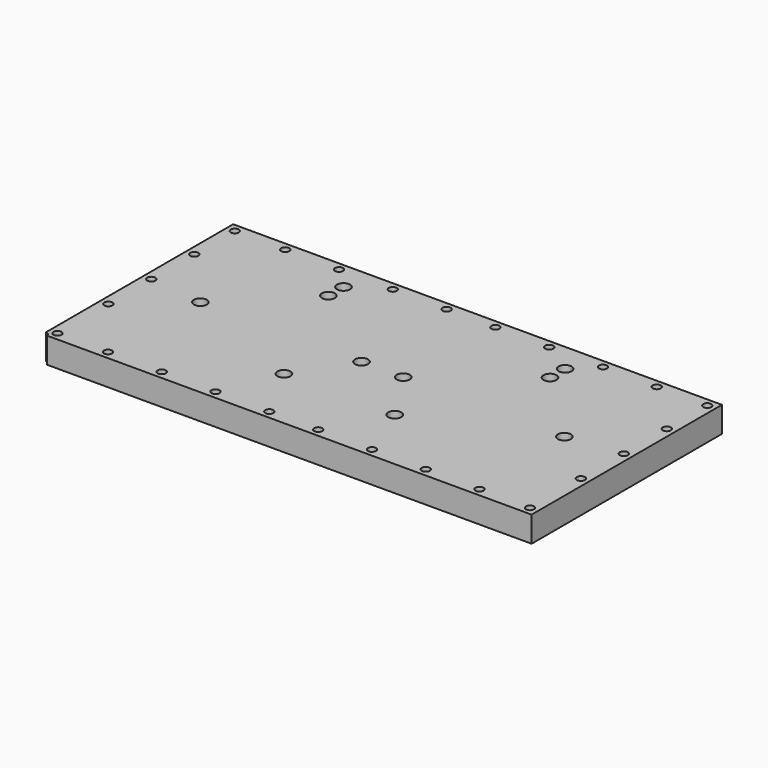
from build123d import *

# Parameters (mm, degrees)
F0_W      = 150
F0_H      = 73
F1_DEPTH  = 7.873
F2_W      = 136
F2_H      = 63
F3_DEPTH  = 4.873
F4_R      = 1.25
F5_DEPTH  = 7.873
F6_R      = 1.25
F7_DEPTH  = 7.873
F8_R      = 1.25
F9_DEPTH  = 7.873
F10_R     = 1.25
F11_DEPTH = 7.873
F12_R     = 1.25
F13_DEPTH = 7.873
F14_R     = 1.25
F15_DEPTH = 7.873
F16_R     = 1.25
F17_DEPTH = 7.873
F18_R     = 1.25
F19_DEPTH = 7.873
F20_R     = 1.25
F21_DEPTH = 7.873
F22_R     = 1.25
F23_DEPTH = 7.873
F24_R     = 1.25
F25_DEPTH = 7.873
F26_R     = 1.25
F27_DEPTH = 7.873
F28_R     = 1.25
F29_DEPTH = 7.873
F30_R     = 1.25
F31_DEPTH = 7.873
F32_R     = 1.25
F33_DEPTH = 7.873
F34_R     = 1.25
F35_DEPTH = 7.873
F36_R     = 1.25
F37_DEPTH = 7.873
F38_R     = 1.25
F39_DEPTH = 7.873
F40_R     = 1.25
F41_DEPTH = 7.873
F42_R     = 1.25
F43_DEPTH = 7.873
F44_R     = 1.25
F45_DEPTH = 7.873
F46_R     = 1.25
F47_DEPTH = 7.873
F48_R     = 1.25
F49_DEPTH = 7.873
F50_R     = 1.25
F51_DEPTH = 7.873
F52_R     = 1.25
F53_DEPTH = 7.873
F54_R     = 1.25
F55_DEPTH = 7.873
F56_R     = 2
F57_DEPTH = 3
F58_R     = 2
F59_DEPTH = 3
F60_R     = 2
F61_DEPTH = 3
F62_R     = 2
F63_DEPTH = 3
F64_R     = 2
F65_DEPTH = 3
F66_R     = 2
F67_DEPTH = 3
F68_R     = 2
F69_DEPTH = 3
F70_R     = 2
F71_DEPTH = 3
F72_R     = 2
F73_DEPTH = 3
F74_R     = 2
F75_DEPTH = 3
F76_W     = 2.5
F76_H     = 4.873
F77_DEPTH = 63
F78_W     = 2.5
F78_H     = 6.5
F79_DEPTH = 0.623
F80_R     = 2
F81_DEPTH = 10
F82_R     = 2
F83_DEPTH = 10
F84_R     = 2
F85_DEPTH = 10
F86_R     = 2
F87_DEPTH = 10
F88_R     = 2
F89_DEPTH = 10
F90_R     = 2
F91_DEPTH = 10


with BuildPart() as f1:
    # F0 (on Top) → F1 (new body)
    with BuildSketch(Plane.XY):
        with Locations((75, 36.5)):
            Rectangle(F0_W, F0_H)
    extrude(amount=F1_DEPTH)

    # F2 (on Top) → F3 (cut)
    with BuildSketch(Plane.XY):
        with Locations((75, 36.5)):
            Rectangle(F2_W, F2_H)
    extrude(amount=F3_DEPTH, mode=Mode.SUBTRACT)

    # F4 (on face) → F5 (cut)
    with BuildSketch(Plane.XY.offset(7.873)):
        with Locations((2.5, 2.5)):
            Circle(F4_R)
    extrude(amount=-F5_DEPTH, mode=Mode.SUBTRACT)

    # F6 (on face) → F7 (cut)
    with BuildSketch(Plane.XY.offset(7.873)):
        with Locations((18, 2.5)):
            Circle(F6_R)
    extrude(amount=-F7_DEPTH, mode=Mode.SUBTRACT)

    # F8 (on face) → F9 (cut)
    with BuildSketch(Plane.XY.offset(7.873)):
        with Locations((34.5, 2.5)):
            Circle(F8_R)
    extrude(amount=-F9_DEPTH, mode=Mode.SUBTRACT)

    # F10 (on face) → F11 (cut)
    with BuildSketch(Plane.XY.offset(7.873)):
        with Locations((51, 2.5)):
            Circle(F10_R)
    extrude(amount=-F11_DEPTH, mode=Mode.SUBTRACT)

    # F12 (on face) → F13 (cut)
    with BuildSketch(Plane.XY.offset(7.873)):
        with Locations((67.5, 2.5)):
            Circle(F12_R)
    extrude(amount=-F13_DEPTH, mode=Mode.SUBTRACT)

    # F14 (on face) → F15 (cut)
    with BuildSketch(Plane.XY.offset(7.873)):
        with Locations((82.5, 2.5)):
            Circle(F14_R)
    extrude(amount=-F15_DEPTH, mode=Mode.SUBTRACT)

    # F16 (on face) → F17 (cut)
    with BuildSketch(Plane.XY.offset(7.873)):
        with Locations((99, 2.5)):
            Circle(F16_R)
    extrude(amount=-F17_DEPTH, mode=Mode.SUBTRACT)

    # F18 (on face) → F19 (cut)
    with BuildSketch(Plane.XY.offset(7.873)):
        with Locations((115.5, 2.5)):
            Circle(F18_R)
    extrude(amount=-F19_DEPTH, mode=Mode.SUBTRACT)

    # F20 (on face) → F21 (cut)
    with BuildSketch(Plane.XY.offset(7.873)):
        with Locations((132, 2.5)):
            Circle(F20_R)
    extrude(amount=-F21_DEPTH, mode=Mode.SUBTRACT)

    # F22 (on face) → F23 (cut)
    with BuildSketch(Plane.XY.offset(7.873)):
        with Locations((147.5, 2.5)):
            Circle(F22_R)
    extrude(amount=-F23_DEPTH, mode=Mode.SUBTRACT)

    # F24 (on face) → F25 (cut)
    with BuildSketch(Plane.XY.offset(7.873)):
        with Locations((2.5, 22)):
            Circle(F24_R)
    extrude(amount=-F25_DEPTH, mode=Mode.SUBTRACT)

    # F26 (on face) → F27 (cut)
    with BuildSketch(Plane.XY.offset(7.873)):
        with Locations((147.5, 22)):
            Circle(F26_R)
    extrude(amount=-F27_DEPTH, mode=Mode.SUBTRACT)

    # F28 (on face) → F29 (cut)
    with BuildSketch(Plane.XY.offset(7.873)):
        with Locations((147.5, 38.5)):
            Circle(F28_R)
    extrude(amount=-F29_DEPTH, mode=Mode.SUBTRACT)

    # F30 (on face) → F31 (cut)
    with BuildSketch(Plane.XY.offset(7.873)):
        with Locations((2.5, 38.5)):
            Circle(F30_R)
    extrude(amount=-F31_DEPTH, mode=Mode.SUBTRACT)

    # F32 (on face) → F33 (cut)
    with BuildSketch(Plane.XY.offset(7.873)):
        with Locations((2.5, 55)):
            Circle(F32_R)
    extrude(amount=-F33_DEPTH, mode=Mode.SUBTRACT)

    # F34 (on face) → F35 (cut)
    with BuildSketch(Plane.XY.offset(7.873)):
        with Locations((147.5, 55)):
            Circle(F34_R)
    extrude(amount=-F35_DEPTH, mode=Mode.SUBTRACT)

    # F36 (on face) → F37 (cut)
    with BuildSketch(Plane.XY.offset(7.873)):
        with Locations((2.5, 70.5)):
            Circle(F36_R)
    extrude(amount=-F37_DEPTH, mode=Mode.SUBTRACT)

    # F38 (on face) → F39 (cut)
    with BuildSketch(Plane.XY.offset(7.873)):
        with Locations((147.5, 70.5)):
            Circle(F38_R)
    extrude(amount=-F39_DEPTH, mode=Mode.SUBTRACT)

    # F40 (on face) → F41 (cut)
    with BuildSketch(Plane.XY.offset(7.873)):
        with Locations((18, 70.5)):
            Circle(F40_R)
    extrude(amount=-F41_DEPTH, mode=Mode.SUBTRACT)

    # F42 (on face) → F43 (cut)
    with BuildSketch(Plane.XY.offset(7.873)):
        with Locations((132, 70.5)):
            Circle(F42_R)
    extrude(amount=-F43_DEPTH, mode=Mode.SUBTRACT)

    # F44 (on face) → F45 (cut)
    with BuildSketch(Plane.XY.offset(7.873)):
        with Locations((34.5, 70.5)):
            Circle(F44_R)
        Circle(F44_R)
    extrude(amount=-F45_DEPTH, mode=Mode.SUBTRACT)

    # F46 (on face) → F47 (cut)
    with BuildSketch(Plane.XY.offset(7.873)):
        with Locations((115.5, 70.5)):
            Circle(F46_R)
    extrude(amount=-F47_DEPTH, mode=Mode.SUBTRACT)

    # F48 (on face) → F49 (cut)
    with BuildSketch(Plane.XY.offset(7.873)):
        with Locations((51, 70.5)):
            Circle(F48_R)
    extrude(amount=-F49_DEPTH, mode=Mode.SUBTRACT)

    # F50 (on face) → F51 (cut)
    with BuildSketch(Plane.XY.offset(7.873)):
        with Locations((67.5, 70.5)):
            Circle(F50_R)
    extrude(amount=-F51_DEPTH, mode=Mode.SUBTRACT)

    # F52 (on face) → F53 (cut)
    with BuildSketch(Plane.XY.offset(7.873)):
        with Locations((82.5, 70.5)):
            Circle(F52_R)
    extrude(amount=-F53_DEPTH, mode=Mode.SUBTRACT)

    # F54 (on face) → F55 (cut)
    with BuildSketch(Plane.XY.offset(7.873)):
        with Locations((99, 70.5)):
            Circle(F54_R)
    extrude(amount=-F55_DEPTH, mode=Mode.SUBTRACT)

    # F56 (on face) → F57 (cut)
    with BuildSketch(Plane.XY.offset(7.873)):
        with Locations((41, 64.1)):
            Circle(F56_R)
    extrude(amount=-F57_DEPTH, mode=Mode.SUBTRACT)

    # F58 (on face) → F59 (cut)
    with BuildSketch(Plane.XY.offset(7.873)):
        with Locations((41, 58.3)):
            Circle(F58_R)
    extrude(amount=-F59_DEPTH, mode=Mode.SUBTRACT)

    # F60 (on face) → F61 (cut)
    with BuildSketch(Plane.XY.offset(7.873)):
        with Locations((19.15, 36.5)):
            Circle(F60_R)
    extrude(amount=-F61_DEPTH, mode=Mode.SUBTRACT)

    # F62 (on face) → F63 (cut)
    with BuildSketch(Plane.XY.offset(7.873)):
        with Locations((68.6, 36.5)):
            Circle(F62_R)
    extrude(amount=-F63_DEPTH, mode=Mode.SUBTRACT)

    # F64 (on face) → F65 (cut)
    with BuildSketch(Plane.XY.offset(7.873)):
        with Locations((109, 64.1)):
            Circle(F64_R)
    extrude(amount=-F65_DEPTH, mode=Mode.SUBTRACT)

    # F66 (on face) → F67 (cut)
    with BuildSketch(Plane.XY.offset(7.873)):
        with Locations((109, 58.3)):
            Circle(F66_R)
    extrude(amount=-F67_DEPTH, mode=Mode.SUBTRACT)

    # F68 (on face) → F69 (cut)
    with BuildSketch(Plane.XY.offset(7.873)):
        with Locations((81.4, 36.5)):
            Circle(F68_R)
    extrude(amount=-F69_DEPTH, mode=Mode.SUBTRACT)

    # F70 (on face) → F71 (cut)
    with BuildSketch(Plane.XY.offset(7.873)):
        with Locations((130.85, 36.5)):
            Circle(F70_R)
    extrude(amount=-F71_DEPTH, mode=Mode.SUBTRACT)

    # F72 (on face) → F73 (cut)
    with BuildSketch(Plane.XY.offset(7.873)):
        with Locations((58, 20)):
            Circle(F72_R)
    extrude(amount=-F73_DEPTH, mode=Mode.SUBTRACT)

    # F74 (on face) → F75 (cut)
    with BuildSketch(Plane.XY.offset(7.873)):
        with Locations((92, 20)):
            Circle(F74_R)
    extrude(amount=-F75_DEPTH, mode=Mode.SUBTRACT)

    # F76 (on face) → F77 (join)
    with BuildSketch(Plane(origin=(0, 5, 0), x_dir=(-1, 0, 0), z_dir=(0, 1, 0))):
        with Locations((-75, 2.4365)):
            Rectangle(F76_W, F76_H)
    extrude(amount=F77_DEPTH)

    # F78 (on face) → F79 (cut)
    with BuildSketch(Plane(origin=(0, 0, 0), x_dir=(1, 0, 0), z_dir=(0, 0, -1))):
        with Locations((75, -36.5)):
            Rectangle(F78_W, F78_H)
    extrude(amount=-F79_DEPTH, mode=Mode.SUBTRACT)

    # F80 (on face) → F81 (join)
    with BuildSketch(Plane(origin=(0, 0, 4.873), x_dir=(1, 0, 0), z_dir=(0, 0, -1))):
        with Locations((41, -14.7)):
            Circle(F80_R)
    extrude(amount=F81_DEPTH)

    # F82 (on face) → F83 (join)
    with BuildSketch(Plane(origin=(0, 0, 4.873), x_dir=(1, 0, 0), z_dir=(0, 0, -1))):
        with Locations((41, -36.5)):
            Circle(F82_R)
    extrude(amount=F83_DEPTH)

    # F84 (on face) → F85 (join)
    with BuildSketch(Plane(origin=(0, 0, 4.873), x_dir=(1, 0, 0), z_dir=(0, 0, -1))):
        with Locations((109, -36.5)):
            Circle(F84_R)
    extrude(amount=F85_DEPTH)

    # F86 (on face) → F87 (join)
    with BuildSketch(Plane(origin=(0, 0, 4.873), x_dir=(1, 0, 0), z_dir=(0, 0, -1))):
        with Locations((109, -14.7)):
            Circle(F86_R)
    extrude(amount=F87_DEPTH)

    # F88 (on face) → F89 (join)
    with BuildSketch(Plane(origin=(0, 0, 4.873), x_dir=(1, 0, 0), z_dir=(0, 0, -1))):
        with Locations((61.55, -36.5)):
            Circle(F88_R)
    extrude(amount=F89_DEPTH)

    # F90 (on face) → F91 (join)
    with BuildSketch(Plane(origin=(0, 0, 4.873), x_dir=(1, 0, 0), z_dir=(0, 0, -1))):
        with Locations((88.45, -36.5)):
            Circle(F90_R)
    extrude(amount=F91_DEPTH)


solid = f1.part
